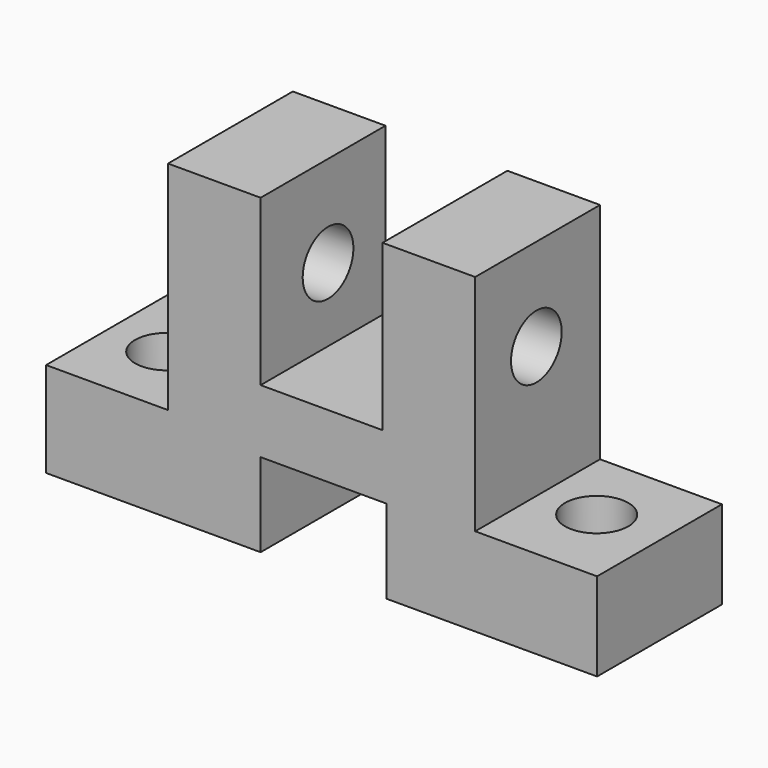
from build123d import *

# Parameters (mm, degrees)
F1_DEPTH = 32
F2_R     = 6.5
F3_DEPTH = 25
F4_R     = 6.5
F5_DEPTH = 25
F6_R     = 6.5
F7_DEPTH = 25
F8_R     = 6.5
F9_DEPTH = 25


with BuildPart() as f1:
    # F0 (on Front) → F1 (new body)
    with BuildSketch(Plane.XZ):
        Polygon((0, 19.488953), (0, 0), (44, 0), (44, 17.170059), (69.764607, 17.170059), (69.764607, 0), (113, 0), (113, 18.089544), (88, 18.089544), (88, 64), (69, 64), (69, 30.170059), (44, 30.170059), (44, 64), (25, 64), (25, 19.488953), align=None)
    extrude(amount=F1_DEPTH)

    # F2 (on face) → F3 (cut)
    with BuildSketch(Plane.XY.offset(18.089544)):
        with Locations((99.580623, -15.326335)):
            Circle(F2_R)
    extrude(amount=-F3_DEPTH, mode=Mode.SUBTRACT)

    # F4 (on face) → F5 (cut)
    with BuildSketch(Plane.XY.offset(19.488953)):
        with Locations((12.18513, -16.29629)):
            Circle(F4_R)
    extrude(amount=-F5_DEPTH, mode=Mode.SUBTRACT)

    # F6 (on face) → F7 (cut)
    with BuildSketch(Plane.YZ.offset(88)):
        with Locations((-16.320663, 45.075346)):
            Circle(F6_R)
    extrude(amount=-F7_DEPTH, mode=Mode.SUBTRACT)

    # F8 (on face) → F9 (cut)
    with BuildSketch(Plane(origin=(25, 0, 0), x_dir=(0, -1, 0), z_dir=(-1, 0, 0))):
        with Locations((14.718622, 45.230217)):
            Circle(F8_R)
    extrude(amount=-F9_DEPTH, mode=Mode.SUBTRACT)


solid = f1.part
